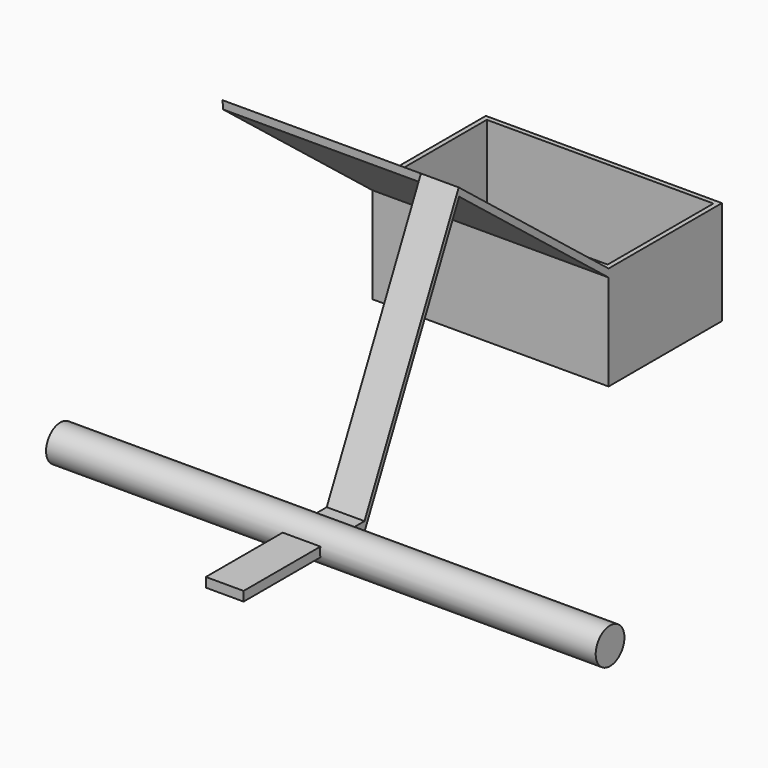
from build123d import *

# Parameters (mm, degrees)
F0_R      = 9.5
F1_DEPTH  = 291
F3_DEPTH  = 60
F4_DEPTH  = 20
F7_DEPTH  = 20
F8_DEPTH  = 20
F10_DEPTH = 105
F11_W     = 120
F11_H     = 70
F12_DEPTH = 149.5


with BuildPart() as f1:
    # F0 (on Right) → F1 (new body)
    with BuildSketch(Plane.YZ):
        Circle(F0_R)
    extrude(amount=F1_DEPTH)

    # F2 (on Front) → F3 (join)
    with BuildSketch(Plane.XZ):
        Polygon((125, -2.5), (145, -2.5), (145, 2.5), (125, 2.5), (125, 0), align=None)
    extrude(amount=F3_DEPTH)

    # F2 (on Front) → F4 (join)
    with BuildSketch(Plane.XZ):
        Polygon((125, -2.5), (145, -2.5), (145, 2.5), (125, 2.5), (125, 0), align=None)
    extrude(amount=-F4_DEPTH)

    # F6 (on offset) → F7 (join)
    with BuildSketch(Plane.YZ.offset(125)):
        Polygon((20, 2.5), (20, 0), (20, -2.5), (82.621394, 128.280584), (82.341, 132.695), align=None)
    extrude(amount=F7_DEPTH)

    # F6 (on offset) → F8 (join)
    with BuildSketch(Plane.YZ.offset(125)):
        Polygon((20, 2.5), (20, 0), (20, -2.5), (82.621394, 128.280584), (82.341, 132.695), align=None)
        Polygon((181.532421, 54.58217), (82.341, 132.695), (82.621394, 128.280584), (181.532421, 50.388562), align=None)
        Polygon((256.532421, 54.58217), (181.532421, 54.58217), (181.532421, 50.388562), (181.532421, -0.41783), (256.532421, -0.41783), align=None)
    extrude(amount=F8_DEPTH)

    # F9 (on face) → F10 (join)
    with BuildSketch(Plane(origin=(125, 0, 0), x_dir=(0, -1, 0), z_dir=(-1, 0, 0))):
        Polygon((-181.532421, 54.58217), (-256.532421, 54.58217), (-256.532421, -0.41783), (-181.532421, -0.41783), (-181.532421, 50.388562), align=None)
        Polygon((-82.341, 132.695), (-181.532421, 54.58217), (-181.532421, 50.388562), (-82.621394, 128.280584), align=None)
    extrude(amount=F10_DEPTH)

    # F11 (on face) → F12 (cut)
    with BuildSketch(Plane.XY.offset(54.58217)):
        with Locations((82.5, 219.032421)):
            Rectangle(F11_W, F11_H)
    extrude(amount=-F12_DEPTH, mode=Mode.SUBTRACT)


solid = f1.part
